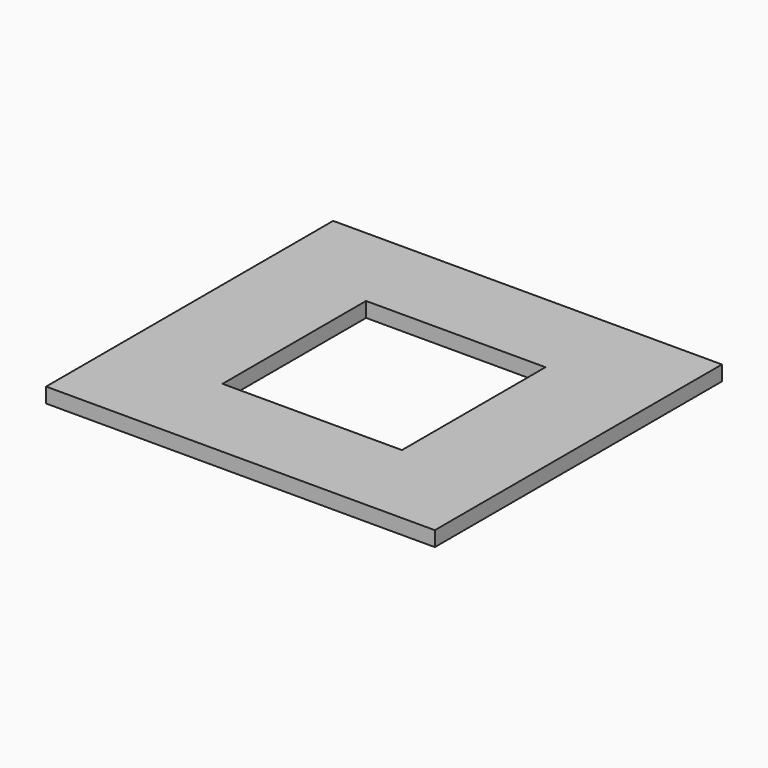
from build123d import *

# Parameters (mm, degrees)
F0_W     = 82.55
F0_H     = 76.2
F1_DEPTH = 3.175
F2_W     = 38.1
F2_H     = 38.1
F3_DEPTH = 3.175


with BuildPart() as f1:
    # F0 (on Top) → F1 (new body)
    with BuildSketch(Plane.XY):
        Rectangle(F0_W, F0_H)
    extrude(amount=F1_DEPTH)

    # F2 (on face) → F3 (cut)
    with BuildSketch(Plane(origin=(0, 0, 0), x_dir=(1, 0, 0), z_dir=(0, 0, -1))):
        Rectangle(F2_W, F2_H)
    extrude(amount=-F3_DEPTH, mode=Mode.SUBTRACT)


solid = f1.part
